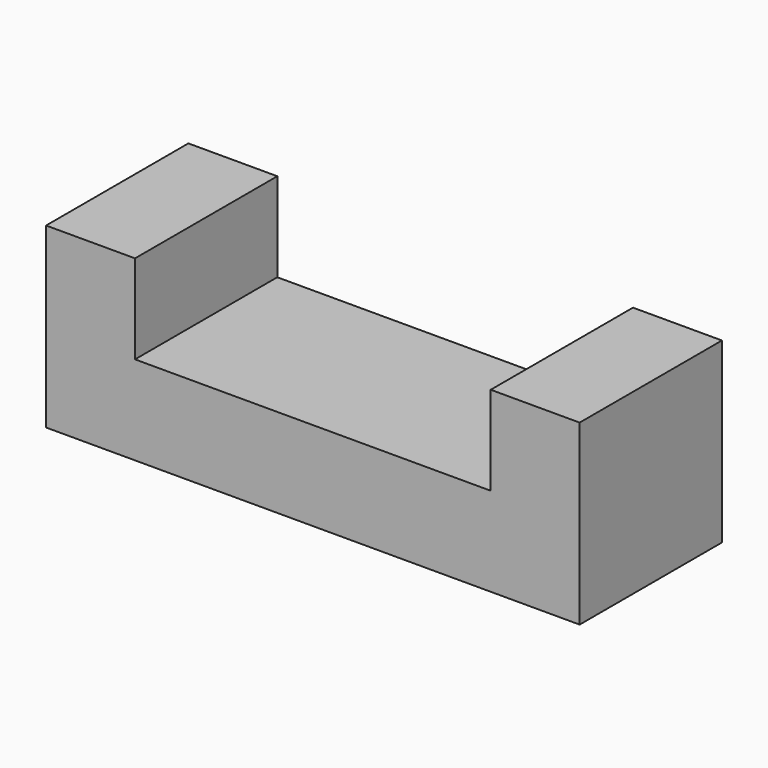
from build123d import *

# Parameters (mm, degrees)
F0_W     = 25.4
F0_H     = 12.7
F1_DEPTH = 6.35
F0_W_2   = 6.35
F2_DEPTH = 12.7


with BuildPart() as f1:
    # F0 (on Top) → F1 (new body)
    with BuildSketch(Plane.XY):
        with Locations((-19.05, 6.35)):
            Rectangle(F0_W, F0_H)
    extrude(amount=F1_DEPTH)

    # F0 (on Top) → F2 (join)
    with BuildSketch(Plane.XY):
        with Locations((-3.175, 6.35)):
            Rectangle(F0_W_2, F0_H)
        with Locations((-34.925, 6.35)):
            Rectangle(F0_W_2, F0_H)
    extrude(amount=F2_DEPTH)


solid = f1.part
